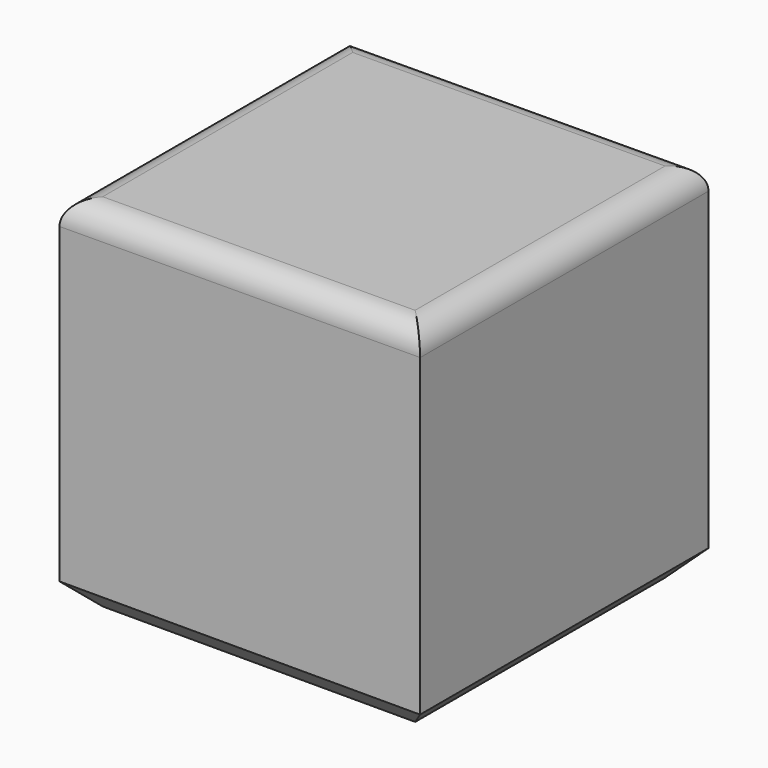
from build123d import *

# Parameters (mm, degrees)
F1_DEPTH = 76.2
F2_R     = 5.08
F3_SIZE  = 5.08


with BuildPart() as f1:
    # F0 (on Front) → F1 (new body)
    with BuildSketch(Plane.XZ):
        Polygon((0, 76.605852), (-76.198919, 76.2), (-76.198919, 0), (0, 0), align=None)
    extrude(amount=F1_DEPTH)

    # F2
    f2_edges = [f1.edges().sort_by_distance(p)[0] for p in [
        (-38.09946, 0, 76.402926),
        (-76.198919, -38.1, 76.2),
        (0, -38.1, 76.605852),
        (-38.09946, -76.2, 76.402926),
    ]]
    fillet(f2_edges, radius=F2_R)

    # F3
    f3_edges = [f1.edges().sort_by_distance(p)[0] for p in [
        (-76.198919, -38.1, 0),
        (-38.09946, -76.2, 0),
        (0, -38.1, 0),
        (-38.09946, 0, 0),
    ]]
    chamfer(f3_edges, length=F3_SIZE)


solid = f1.part
